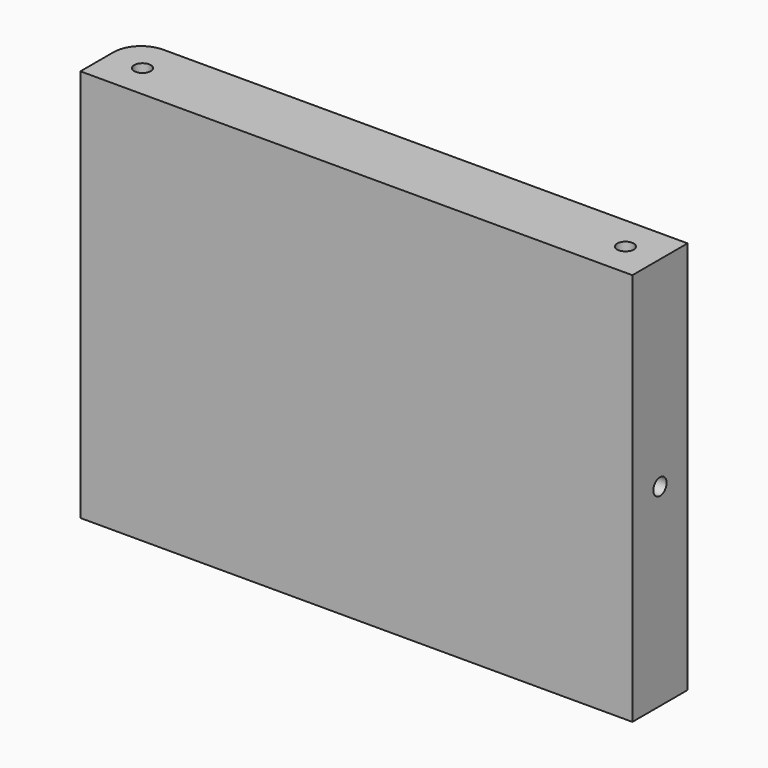
from build123d import *

# Parameters (mm, degrees)
CYLINDER107_R     = 1.2
CYLINDER107_DEPTH = 100
CYLINDER110_R     = 1.2
CYLINDER110_DEPTH = 100
CYLINDER108_R     = 1.2
CYLINDER108_DEPTH = 100
BOX038_W          = 80
BOX038_H          = 10
BOX038_DEPTH      = 57
FILLET015_R       = 4


with BuildPart() as screwhole055:
    # Cylinder107 → Cylinder107 (new body)
    with BuildSketch(Plane(origin=(125, -35, -20), x_dir=(1, 0, 0), z_dir=(0, 0, 1))):
        Circle(CYLINDER107_R)
    extrude(amount=CYLINDER107_DEPTH)


with BuildPart() as screwhole058:
    # Cylinder110 → Cylinder110 (new body)
    with BuildSketch(Plane(origin=(55, -35, 20), x_dir=(0, 0, -1), z_dir=(1, 0, 0))):
        Circle(CYLINDER110_R)
    extrude(amount=CYLINDER110_DEPTH)


with BuildPart() as fusion001002012030037:
    # Cylinder108 → Cylinder108 (new body)
    with BuildSketch(Plane(origin=(55, -35, -20), x_dir=(1, 0, 0), z_dir=(0, 0, 1))):
        Circle(CYLINDER108_R)
    extrude(amount=CYLINDER108_DEPTH)

    # Fusion001002012030037: union ScrewHole055, ScrewHole058
    add(screwhole055.part)
    add(screwhole058.part)


with BuildPart() as side001:
    # Box038 → Box038 (new body)
    with BuildSketch(Plane(origin=(50, -40, -8), x_dir=(1, 0, 0), z_dir=(0, 0, 1))):
        with Locations((40, 5)):
            Rectangle(BOX038_W, BOX038_H)
    extrude(amount=BOX038_DEPTH)

    # Fillet015
    fillet015_edges = [side001.edges().sort_by_distance(p)[0] for p in [
        (50, -30, 20.5),
    ]]
    fillet(fillet015_edges, radius=FILLET015_R)

    # Cut015017007031: cut Fusion001002012030037
    add(fusion001002012030037.part, mode=Mode.SUBTRACT)


solid = side001.part
